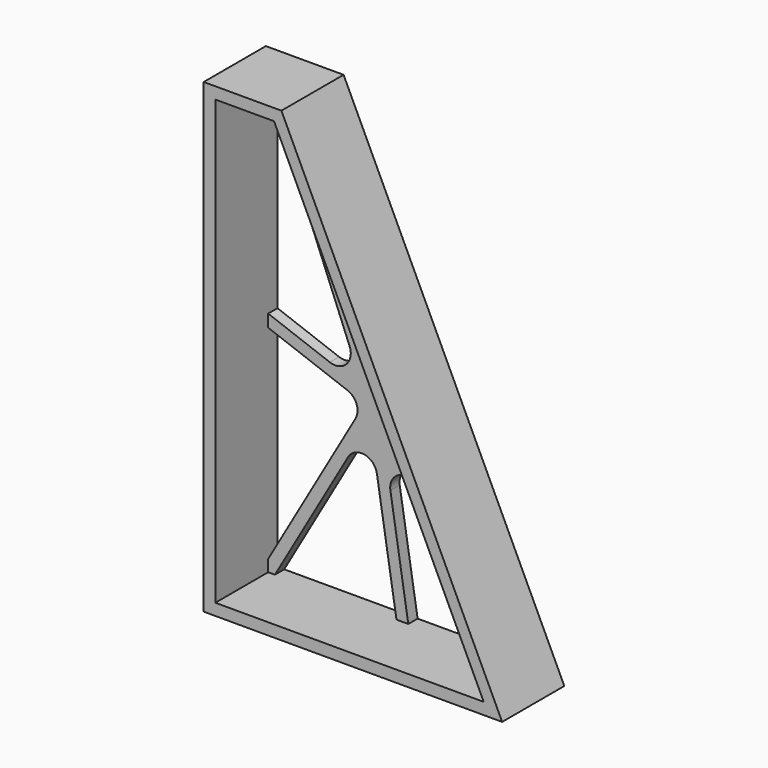
from build123d import *

# Parameters (mm, degrees)
F1_DEPTH = 25.4
F3_DEPTH = 3.81
F4_R     = 5.08
F5_R     = 1.27


with BuildPart() as f1:
    # F0 (on Front) → F1 (new body)
    with BuildSketch(Plane.XZ):
        Polygon((0, 152.4), (0, 0), (97.536, 0), (25.4, 152.4), align=None)
        Polygon((3.81, 3.81), (3.81, 148.59), (22.9881477466, 148.59), (91.5173477466, 3.81), align=None, mode=Mode.SUBTRACT)
    extrude(amount=F1_DEPTH)

    # F2 (on face) → F3 (join)
    with BuildSketch(Plane(origin=(0, 0, 0), x_dir=(-1, 0, 0), z_dir=(0, 1, 0))):
        Polygon((-39.4677877212, 66.6927195413), (-56.4292804153, 77.939719714), (-58.0762150779, 74.460280286), (-40.9881443162, 63.1293474326), (-88.6470719162, 9.873963022), (-91.5173477466, 3.81), (-88.9609051741, 3.81), (-41.0075535603, 57.3943818268), (-49.5929707574, 3.81), (-45.7343769892, 3.81), (-37.0705642602, 57.8836738464), (-6.0069643909, 3.81), (-3.81, 3.81), (-3.81, 7.6343454213), (-35.3261969761, 62.4958734908), (-3.81, 74.1685390375), (-3.81, 78.2314609625), (-34.7235350429, 66.7820035392), (-3.81, 143.4933682752), (-3.81, 148.59), (-5.863866516, 148.59), (-25.7159540879, 99.3274123216), (-11.4154306532, 148.59), (-15.3827170934, 148.59), (-29.9899241521, 98.2709454732), (-21.0533379782, 148.59), (-22.9881477466, 148.59), (-26.0848739491, 142.0476206988), align=None)
    extrude(amount=-F3_DEPTH)

    # F4
    f4_edges = [f1.edges().sort_by_distance(p)[0] for p in [
        (40.988144, -1.905, 63.129347),
        (41.007554, -1.905, 57.394382),
        (35.326197, -1.905, 62.495873),
        (37.070564, -1.905, 57.883674),
        (39.467788, -1.905, 66.69272),
        (34.723535, -1.905, 66.782004),
    ]]
    fillet(f4_edges, radius=F4_R)

    # F5
    f5_edges = [f1.edges().sort_by_distance(p)[0] for p in [
        (25.715954, -1.905, 99.327412),
    ]]
    fillet(f5_edges, radius=F5_R)


solid = f1.part
